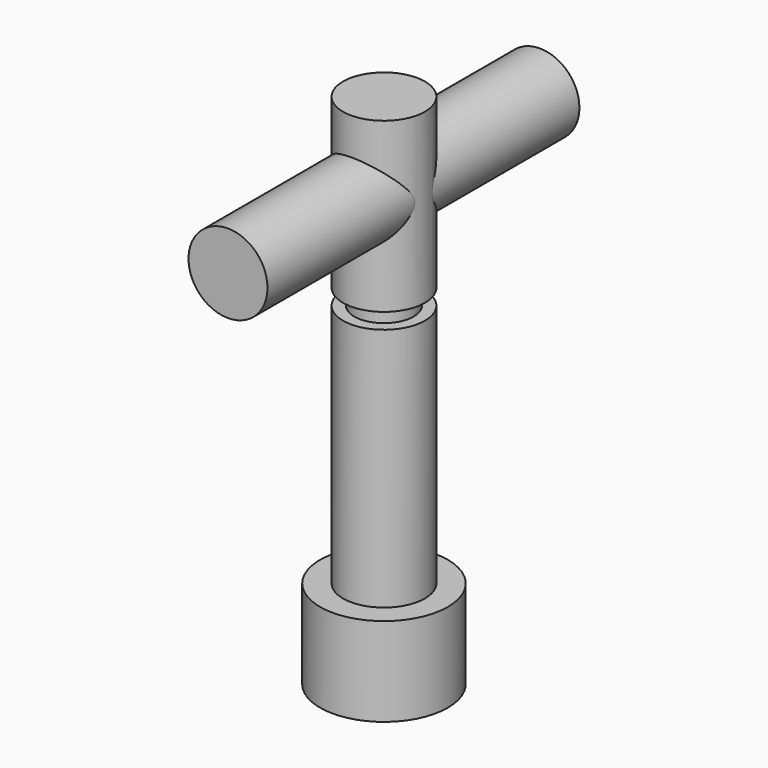
from build123d import *

# Parameters (mm, degrees)
F2_R          = 6.482371
F3_DEPTH      = 32.004
F3_DEPTH_BACK = 32.004


with BuildPart() as f1:
    # F0 (on Front) → F1 (revolve)
    with BuildSketch(Plane.XZ):
        Polygon((6.721209, 55.426951), (0, 55.426951), (0, 27.805546), (0, 25.227549), (0, 0), (0, -21.728838), (0, -29.483447), (10.483314, -29.483447), (10.483314, -14.915559), (6.721209, -14.915559), (6.721209, 25.227549), (4.879782, 25.227549), (4.879782, 27.805546), (6.721209, 27.805546), (6.721209, 42.352822), (6.721209, 48.06124), align=None)
    revolve(axis=Axis((0, 0, 27.713476), (0, 0, 1)))

    # F2 (on Front) → F3 (join, two sides)
    with BuildSketch(Plane.XZ) as f3_sk:
        with Locations((0, 42.905249)):
            Circle(F2_R)
    extrude(amount=F3_DEPTH)
    extrude(f3_sk.sketch, amount=-F3_DEPTH_BACK)


solid = f1.part
